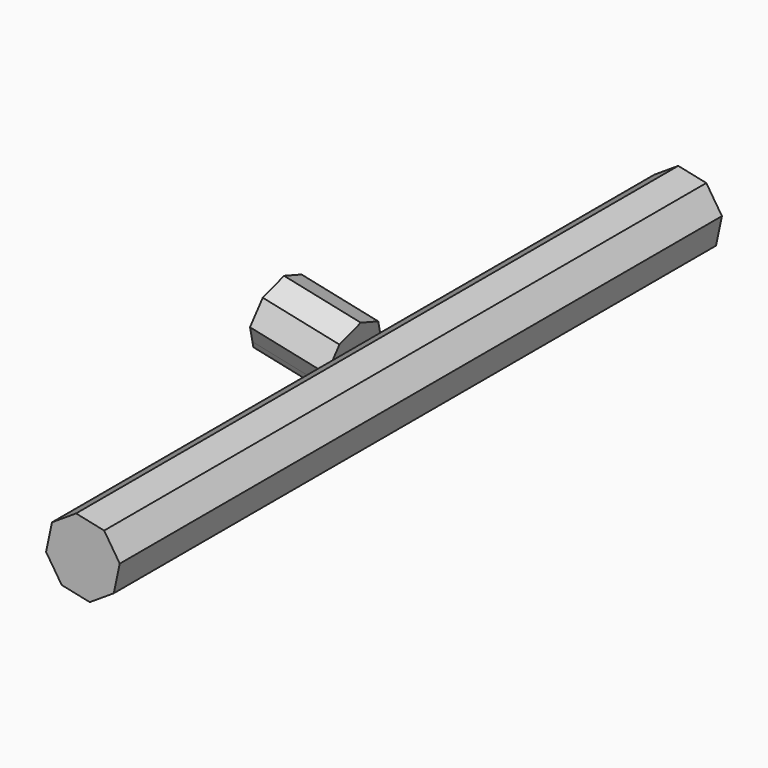
from build123d import *

# Parameters (mm, degrees)
F1_DEPTH = 1219.2
F3_DEPTH = 127


with BuildPart() as f1:
    # F0 (on Front) → F1 (new body)
    with BuildSketch(Plane.XZ):
        Polygon((-50.0055852482, 34.3864821036), (-59.6742031028, -11.0443737496), (-34.3864821036, -50.0055852482), (11.0443737496, -59.6742031028), (50.0055852482, -34.3864821036), (59.6742031028, 11.0443737496), (34.3864821036, 50.0055852482), (-11.0443737496, 59.6742031028), align=None)
    extrude(amount=F1_DEPTH)

    # F2 (on face) → F3 (join)
    with BuildSketch(Plane(origin=(-54.8398941755, 0, 11.671054177), x_dir=(0, -1, 0), z_dir=(-0.9780950669, 0, 0.2081586897))):
        Polygon((646.0840535932, -23.2241514095), (658.3073718283, 4.8301390912), (651.0776700658, 23.2241514095), (554.8384851013, 23.2241514095), (547.7014200952, 6.8435507287), (559.5194245296, -23.2241514095), align=None)
        Polygon((554.8384851013, 23.2241514095), (651.0776700658, 23.2241514095), (642.8213537279, 44.2301056538), (604.0111017805, 61.1398207765), (564.6111352179, 45.6538026761), align=None)
        Polygon((641.3976567057, -33.9801128562), (646.0840535932, -23.2241514095), (559.5194245296, -23.2241514095), (563.1874381956, -32.556415834), (601.997690143, -49.4661309566), align=None)
    extrude(amount=F3_DEPTH)


solid = f1.part
